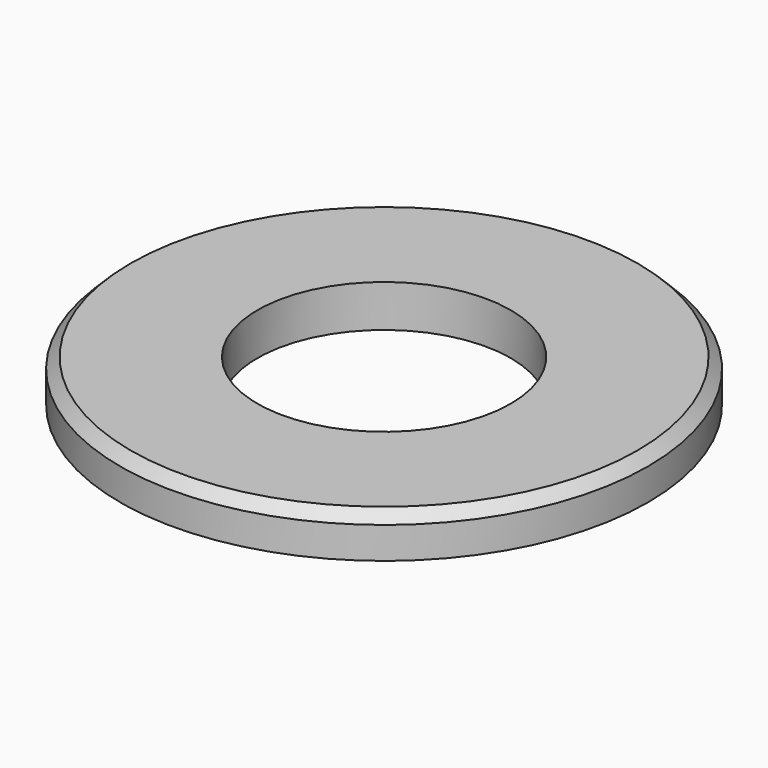
from build123d import *

# Parameters (mm, degrees)
F0_R     = 12.5
F0_R_2   = 11.5
F0_R_3   = 7
F0_R_4   = 6
F1_DEPTH = 1
F2_DEPTH = 1
F3_SIZE  = 0.5


with BuildPart() as f1:
    # F0 (on Top) → F1 (new body)
    with BuildSketch(Plane.XY):
        Circle(F0_R)
        Circle(F0_R_2, mode=Mode.SUBTRACT)
        Circle(F0_R_2)
        Circle(F0_R_3, mode=Mode.SUBTRACT)
        Circle(F0_R_3)
        Circle(F0_R_4, mode=Mode.SUBTRACT)
    extrude(amount=F1_DEPTH)

    # F0 (on Top) → F2 (join)
    with BuildSketch(Plane.XY):
        Circle(F0_R)
        Circle(F0_R_2, mode=Mode.SUBTRACT)
        Circle(F0_R_3)
        Circle(F0_R_4, mode=Mode.SUBTRACT)
    extrude(amount=-F2_DEPTH)

    # F3
    f3_edges = [f1.edges().sort_by_distance(p)[0] for p in [
        (-12.5, 0, 1),
    ]]
    chamfer(f3_edges, length=F3_SIZE)


solid = f1.part
